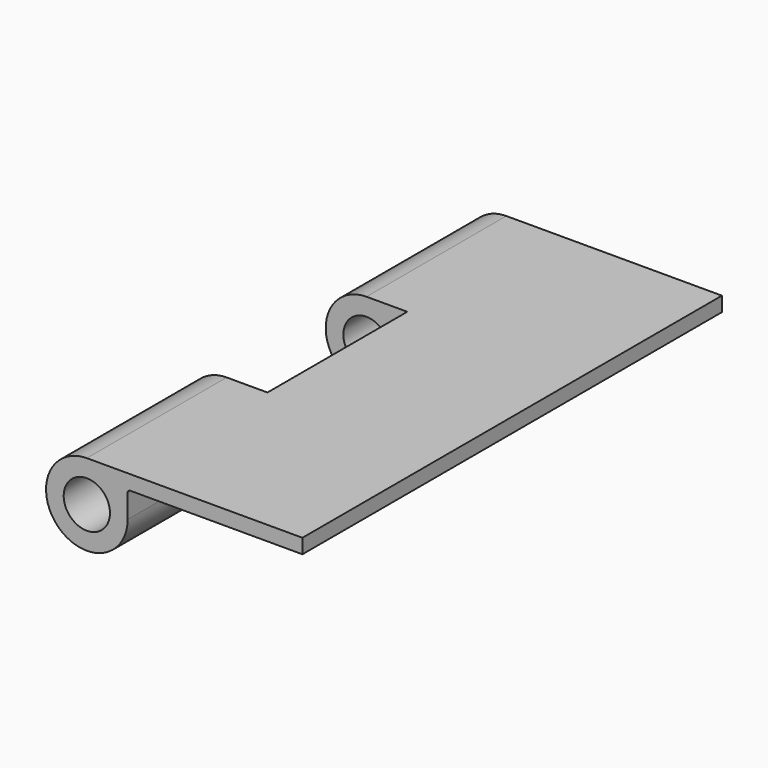
from build123d import *

# Parameters (mm, degrees)
F0_R     = 5.0419
F1_DEPTH = 114.3
F2_W     = 17.78
F2_H     = 38.1
F3_DEPTH = 25.4


with BuildPart() as f1:
    # F0 (on Front) → F1 (new body)
    with BuildSketch(Plane.XZ):
        with BuildLine():
            Line((8.73125, -3.512082), (8.73125, 0))
            Line((8.73125, 0), (8.73125, 1.567918))
            ThreePointArc((8.73125, 1.567918), (8.917237, 2.016931), (9.36625, 2.202918))
            Line((9.36625, 2.202918), (46.83125, 2.202918))
            Line((46.83125, 2.202918), (46.83125, 5.377918))
            Line((46.83125, 5.377918), (-0.15875, 5.377918))
            ThreePointArc((-0.15875, 5.377918), (-6.444929, -9.798261), (8.73125, -3.512082))
        make_face()
        with Locations((-0.15875, -3.512082)):
            Circle(F0_R, mode=Mode.SUBTRACT)
    extrude(amount=F1_DEPTH)

    # F2 (on face) → F3 (cut)
    with BuildSketch(Plane.XY.offset(5.377918)):
        with Locations((-0.15875, -57.15)):
            Rectangle(F2_W, F2_H)
    extrude(amount=-F3_DEPTH, mode=Mode.SUBTRACT)


solid = f1.part
